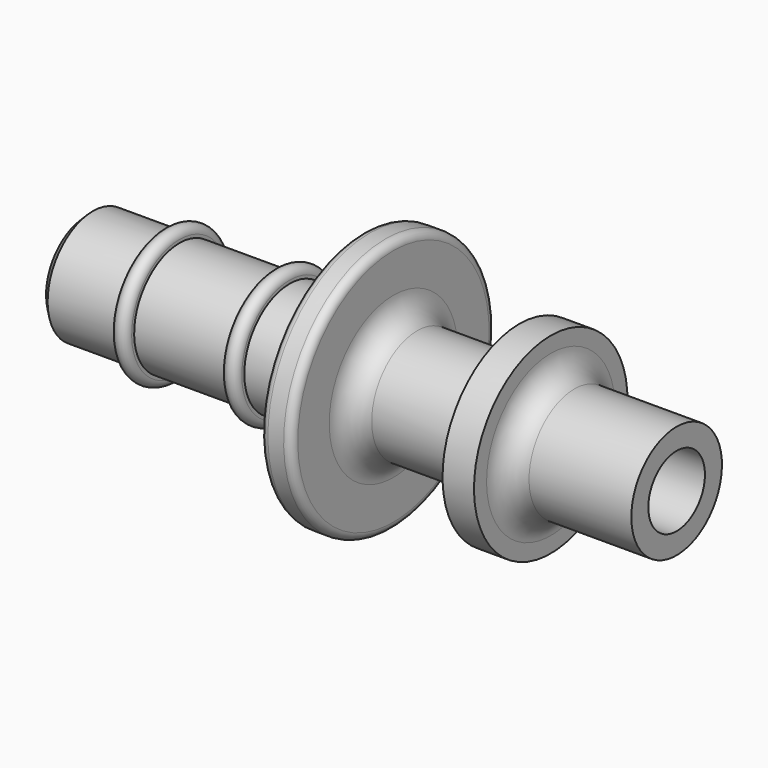
from build123d import *

# Parameters (mm, degrees)
F2_SIZE  = 0.5
F3_R     = 2.25
F4_DEPTH = 37.601


with BuildPart() as f1:
    # F0 (on Front) → F1 (revolve)
    with BuildSketch(Plane.XZ):
        with BuildLine():
            Line((-18.8, 0), (18.8, 0))
            Line((18.8, 0), (18.8, 3.6))
            Line((18.8, 3.6), (12.3, 3.6))
            ThreePointArc((12.3, 3.6), (11.23934, 4.03934), (10.8, 5.1))
            Line((10.8, 5.1), (10.8, 6.1))
            Line((10.8, 6.1), (8.8, 6.1))
            Line((8.8, 6.1), (8.8, 5.1))
            ThreePointArc((8.8, 5.1), (8.36066, 4.03934), (7.3, 3.6))
            Line((7.3, 3.6), (2.3, 3.6))
            ThreePointArc((2.3, 3.6), (1.23934, 4.03934), (0.8, 5.1))
            Line((0.8, 5.1), (0.8, 7.6))
            ThreePointArc((0.8, 7.6), (0.653553, 7.953553), (0.3, 8.1))
            Line((0.3, 8.1), (-0.7, 8.1))
            ThreePointArc((-0.7, 8.1), (-1.053553, 7.953553), (-1.2, 7.6))
            Line((-1.2, 7.6), (-1.2, 5.1))
            ThreePointArc((-1.2, 5.1), (-1.63934, 4.03934), (-2.7, 3.6))
            Line((-2.7, 3.6), (-5.8, 3.6))
            Line((-5.8, 3.6), (-6.8, 3.6))
            Line((-6.8, 3.6), (-12.8, 3.6))
            Line((-12.8, 3.6), (-13.8, 3.6))
            Line((-13.8, 3.6), (-18.8, 3.6))
            Line((-18.8, 3.6), (-18.8, 0))
        make_face()
        with BuildLine():
            Line((-6.8, 3.8), (-6.8, 3.6))
            Line((-6.8, 3.6), (-5.8, 3.6))
            Line((-5.8, 3.6), (-5.8, 3.8))
            ThreePointArc((-5.8, 3.8), (-6.188029, 4.287301), (-6.74985, 4.018255))
            Line((-6.74985, 4.018255), (-6.8, 3.8))
        make_face()
        with BuildLine():
            Line((-13.8, 3.8), (-13.8, 3.6))
            Line((-13.8, 3.6), (-12.8, 3.6))
            Line((-12.8, 3.6), (-12.8, 3.8))
            ThreePointArc((-12.8, 3.8), (-13.3, 4.3), (-13.8, 3.8))
        make_face()
    revolve(axis=Axis((0.027027, 0, 0), (1, 0, 0)))

    # F2
    f2_edges = [f1.edges().sort_by_distance(p)[0] for p in [
        (-18.8, 0, -3.6),
    ]]
    chamfer(f2_edges, length=F2_SIZE)

    # F3 (on face) → F4 (cut, through all)
    with BuildSketch(Plane(origin=(-18.8, 0, 0), x_dir=(0, -1, 0), z_dir=(-1, 0, 0))):
        Circle(F3_R)
    extrude(amount=-F4_DEPTH, mode=Mode.SUBTRACT)


solid = f1.part
